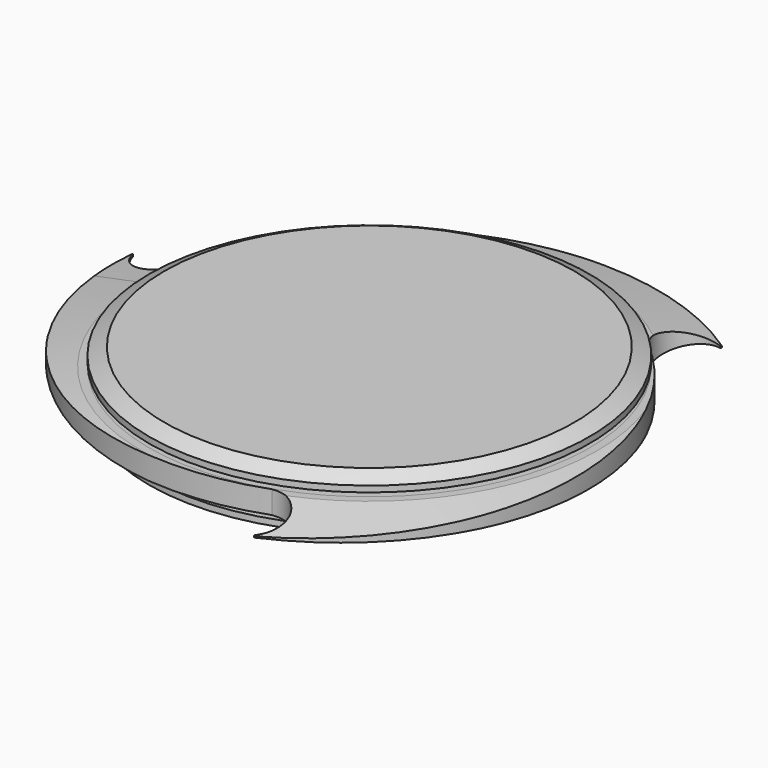
from build123d import *

# Parameters (mm, degrees)
F4_DEPTH = 3.81
F5_COUNT = 3
F6_R     = 0.254
F6_2_R   = 0.254
F6_3_R   = 0.254


with BuildPart() as f1:
    # F0 (on Front) → F1 (revolve)
    with BuildSketch(Plane.XZ):
        Polygon((-73.66, 0), (-13, 0), (-13, 4), (-23.16, 1.27), (-69.85, 1.27), (-69.85, 3.81), (-73.66, 3.81), (-73.66, 1.27), align=None)
    revolve(axis=Axis((0, 0, 0.2920920961), (0, 0, 1)))

    # F2: F1 across face


with BuildPart() as f1_1:
    add(f1.part)
    add(f1.part.mirror(Plane(origin=(0, 0, 0), x_dir=(1, 0, 0), z_dir=(0, 0, -1))))


with BuildPart() as f4:
    # F3 (on Top) → F4 (new body, symmetric)
    with BuildSketch(Plane.XY):
        with BuildLine():
            ThreePointArc((50.0636124905, 54.1259794918), (49.0768492837, 68.2585823105), (63.1221299568, 70.1117565792))
            ThreePointArc((63.1221299568, 70.1117565792), (-26.6928575819, 76.8521461739), (-73.66, 0))
            ThreePointArc((-73.66, 0), (-29.5090524227, 67.4908247476), (50.0166610132, 54.0752181789))
            Line((50.0166610132, 54.0752181789), (50.0636124905, 54.1259794918))
        make_face()
    extrude(amount=F4_DEPTH, both=True)


with BuildPart() as f5_1:
    # F5: instance of F4
    add(f4.part.rotate(Axis((0, 0, 0.2920920961), (0, 0, 1)), 1 * 360 / F5_COUNT))

    # F6#3
    f6_3_edges = [f5_1.edges().sort_by_distance(p)[0] for p in [
        (-92.279627, 19.60949, 0),
    ]]
    fillet(f6_3_edges, radius=F6_3_R)


with BuildPart() as f5_2:
    # F5: instance of F4
    add(f4.part.rotate(Axis((0, 0, 0.2920920961), (0, 0, 1)), 2 * 360 / F5_COUNT))

    # F6
    f6_edges = [f5_2.edges().sort_by_distance(p)[0] for p in [
        (29.157497, -89.721246, 0),
    ]]
    fillet(f6_edges, radius=F6_R)


with BuildPart() as f4_1:
    add(f4.part)

    # F6#2
    f6_2_edges = [f4_1.edges().sort_by_distance(p)[0] for p in [
        (63.12213, 70.111757, 0),
    ]]
    fillet(f6_2_edges, radius=F6_2_R)

    # F7: union F5_1, F5_2, F1
    add(f5_1.part)
    add(f5_2.part)
    add(f1_1.part)

    # F8 (on Front) → F9 (revolve, cut)
    with BuildSketch(Plane.XZ):
        Polygon((-94.951055944, 0), (-76.2184038758, 3.81), (-94.951055944, 3.81), align=None)
        Polygon((-76.2184038758, -3.81), (-94.951055944, 0), (-94.951055944, -3.81), align=None)
    revolve(axis=Axis((0, 0, 0.2920920961), (0, 0, 1)), mode=Mode.SUBTRACT)


with BuildPart() as f11:
    # F10 (on Front) → F11 (revolve)
    with BuildSketch(Plane.XZ):
        Polygon((-73.66, 7.112), (-73.66, 5.08), (-68.58, 5.08), (-68.58, 2.54), (-23.16, 2.54), (-13, 5.27), (-6, 5.27), (-6, 4.27), (-5, 4.27), (-5, 0), (0, 0), (0, 9.652), (-68.58, 9.652), align=None)
    revolve(axis=Axis((0, 0, 0.2920920961), (0, 0, 1)))


with BuildPart() as f12_1:
    # F12: instance of F11
    add(f11.part.mirror(Plane(origin=(0, 0, 0), x_dir=(1, 0, 0), z_dir=(0, 0, -1))))


solid = Compound([f4_1.part, f11.part, f12_1.part])
